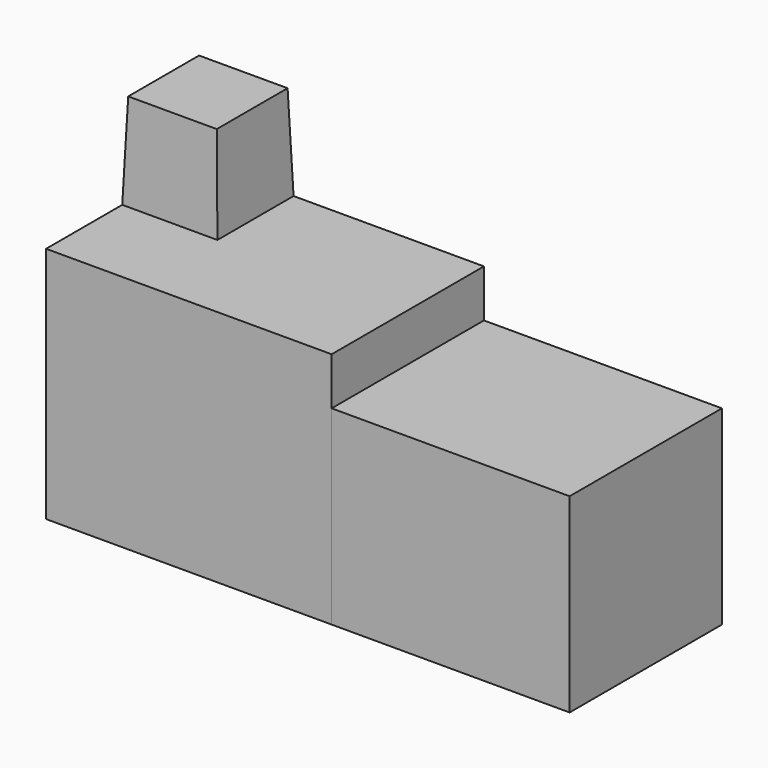
from build123d import *

# Parameters (mm, degrees)
F1_DEPTH = 127
F2_W     = 50.8
F2_H     = 50.8
F3_DEPTH = 50.8
F3_TAPER = 2
F4_W     = 101.6
F4_H     = 101.6
F5_DEPTH = 127


with BuildPart() as f1:
    # F0 (on Top) → F1 (new body)
    with BuildSketch(Plane.XY):
        Polygon((0, -101.6), (0, 0), (-152.4, 0), (-152.4, -83.5059957942), (-152.4, -101.6), (-73.8790052375, -101.6), align=None)
    extrude(amount=F1_DEPTH)

    # F2 (on face) → F3 (join)
    with BuildSketch(Plane.XY.offset(127)):
        with Locations((-127, -25.4)):
            Rectangle(F2_W, F2_H)
    extrude(amount=F3_DEPTH, taper=F3_TAPER)


with BuildPart() as f5:
    # F4 (on face) → F5 (new body)
    with BuildSketch(Plane.YZ):
        with Locations((-50.8, 50.8)):
            Rectangle(F4_W, F4_H)
    extrude(amount=F5_DEPTH)


solid = Compound([f1.part, f5.part])
